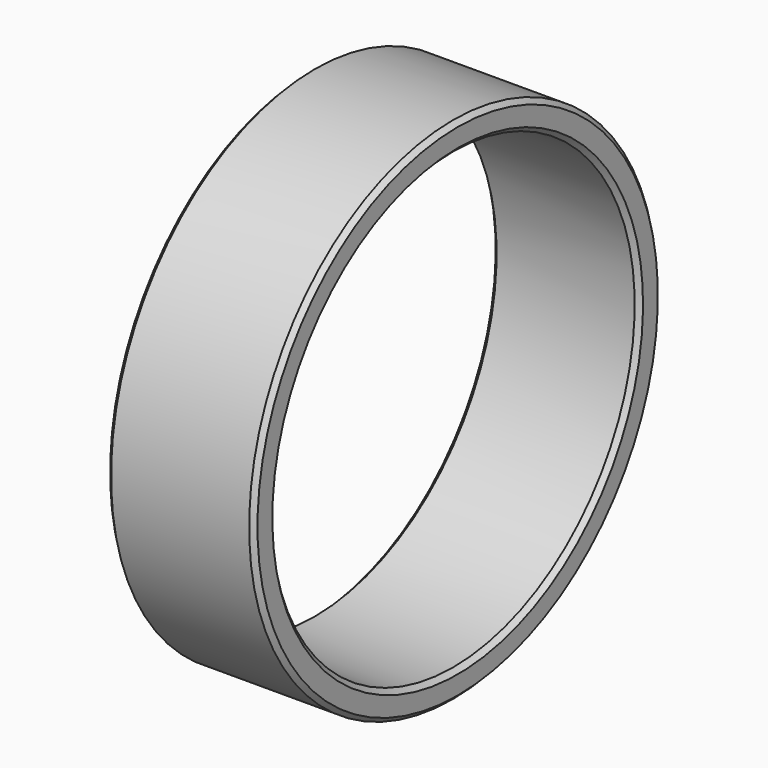
from build123d import *

# Parameters (mm, degrees)
F0_W    = 15.9
F0_H    = 3
F2_SIZE = 0.5


with BuildPart() as f1:
    # F0 (on Front) → F1 (revolve)
    with BuildSketch(Plane.XZ):
        with Locations((-12.436811, 26)):
            Rectangle(F0_W, F0_H)
    revolve(axis=Axis((-12.57622, 0, 0), (-1, 0, 0)))

    # F2
    f2_edges = [f1.edges().sort_by_distance(p)[0] for p in [
        (-20.386811, 0, -24.5),
        (-4.486811, 0, -24.5),
        (-12.436811, 0, 24.5),
        (-4.486811, 0, -27.5),
        (-20.386811, 0, -27.5),
        (-12.436811, 0, 27.5),
    ]]
    chamfer(f2_edges, length=F2_SIZE)


solid = f1.part
